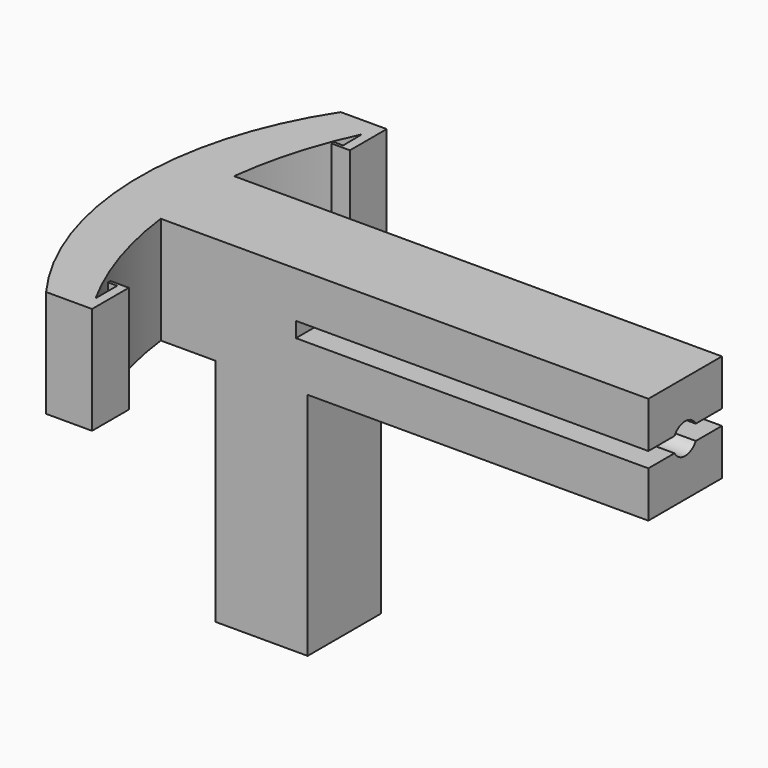
from build123d import *

# Parameters (mm, degrees)
F1_DEPTH = 35
F2_R     = 5
F3_DEPTH = 2000
F5_DEPTH = 70
F6_W     = 30
F6_H     = 30
F7_DEPTH = 75


with BuildPart() as f1:
    # F0 (on Top) → F1 (new body)
    with BuildSketch(Plane.XY):
        with BuildLine():
            Line((-47.982599, 59.580382), (-62.982599, 59.580382))
            ThreePointArc((-62.982599, 59.580382), (-80.691861, -3.159854), (-59.585238, -64.840204))
            Line((-59.585238, -64.840204), (-44.585238, -64.840204))
            Line((-44.585238, -64.840204), (-44.585238, -49.840204))
            Line((-44.585238, -49.840204), (-47.585238, -49.840204))
            Line((-47.585238, -49.840204), (-50.585238, -49.840204))
            Line((-50.585238, -49.840204), (-50.585238, -50.840204))
            Line((-50.585238, -50.840204), (-47.585238, -50.840204))
            Line((-47.585238, -50.840204), (-47.585238, -59.677918))
            ThreePointArc((-47.585238, -59.677918), (-56.935757, -38.026074), (-62.037933, -14.999952))
            Line((-62.037933, -14.999952), (97.05541, -14.999952))
            Line((97.05541, -14.999952), (97.05541, 15.000048))
            Line((97.05541, 15.000048), (-62.114497, 15.000048))
            ThreePointArc((-62.114497, 15.000048), (-58.159644, 34.644429), (-51.106269, 53.40056))
            Line((-51.106269, 53.40056), (-50.99662, 45.580382))
            Line((-50.99662, 45.580382), (-53.982599, 45.580382))
            Line((-53.982599, 45.580382), (-53.982599, 44.580382))
            Line((-53.982599, 44.580382), (-47.982599, 44.580382))
            Line((-47.982599, 44.580382), (-47.982599, 59.580382))
        make_face()
        with BuildLine():
            Line((-47.982599, 59.580382), (-62.982599, 59.580382))
            ThreePointArc((-62.982599, 59.580382), (-80.691861, -3.159854), (-59.585238, -64.840204))
            Line((-59.585238, -64.840204), (-44.585238, -64.840204))
            Line((-44.585238, -64.840204), (-44.585238, -49.840204))
            Line((-44.585238, -49.840204), (-47.585238, -49.840204))
            Line((-47.585238, -49.840204), (-50.585238, -49.840204))
            Line((-50.585238, -49.840204), (-50.585238, -50.840204))
            Line((-50.585238, -50.840204), (-47.585238, -50.840204))
            Line((-47.585238, -50.840204), (-47.585238, -59.677918))
            ThreePointArc((-47.585238, -59.677918), (-56.935757, -38.026074), (-62.037933, -14.999952))
            Line((-62.037933, -14.999952), (97.05541, -14.999952))
            Line((97.05541, -14.999952), (97.05541, 15.000048))
            Line((97.05541, 15.000048), (-62.114497, 15.000048))
            ThreePointArc((-62.114497, 15.000048), (-58.159644, 34.644429), (-51.106269, 53.40056))
            Line((-51.106269, 53.40056), (-50.99662, 45.580382))
            Line((-50.99662, 45.580382), (-53.982599, 45.580382))
            Line((-53.982599, 45.580382), (-53.982599, 44.580382))
            Line((-53.982599, 44.580382), (-47.982599, 44.580382))
            Line((-47.982599, 44.580382), (-47.982599, 59.580382))
        make_face()
    extrude(amount=F1_DEPTH)

    # F2 (on face) → F3 (cut)
    with BuildSketch(Plane.YZ.offset(97.05541)):
        with Locations((2.4e-05, 17.5)):
            Circle(F2_R)
    extrude(amount=-F3_DEPTH, mode=Mode.SUBTRACT)

    # F4 (on face) → F5 (cut)
    with BuildSketch(Plane.XZ.offset(14.999952)):
        Polygon((-17.94459, 20), (-17.94459, 17.5), (-17.94459, 15.032329), (97.05541, 15.032329), (97.05541, 20), align=None)
    extrude(amount=-F5_DEPTH, mode=Mode.SUBTRACT)

    # F6 (on face) → F7 (join)
    with BuildSketch(Plane(origin=(0, 0, 0), x_dir=(1, 0, 0), z_dir=(0, 0, -1))):
        with Locations((-29.112317, -4.8e-05)):
            Rectangle(F6_W, F6_H)
        with Locations((-29.112317, -4.8e-05)):
            Rectangle(F6_W, F6_H)
    extrude(amount=F7_DEPTH)


solid = f1.part
